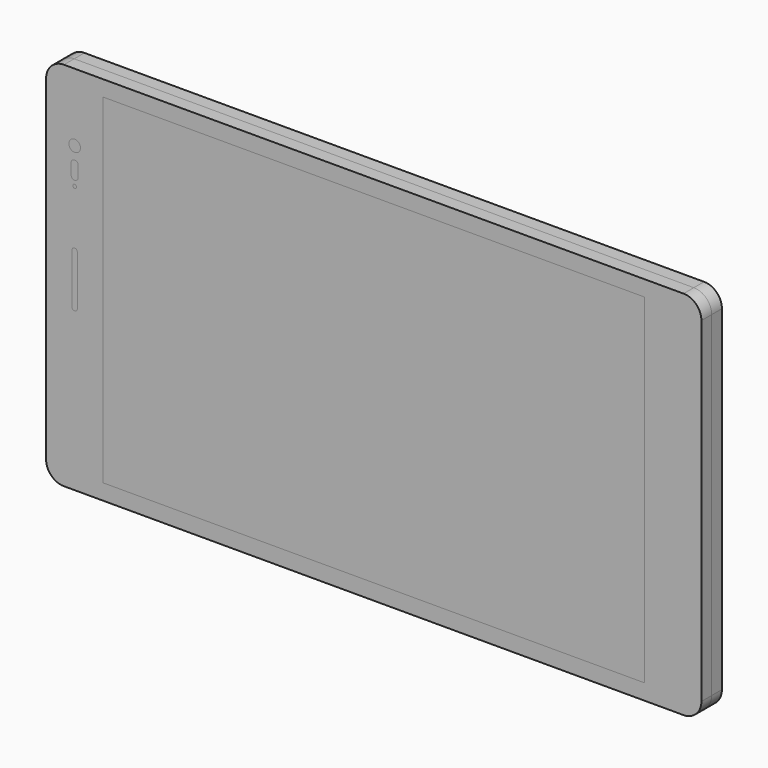
from build123d import *

# Parameters (mm, degrees)
F0_R     = 0.5
F0_R_2   = 2.5
F0_W     = 151.5
F0_H     = 95.1
F1_DEPTH = 3.59
F2_DEPTH = 3.59
F3_DEPTH = 3.59
F4_DEPTH = 3.59


with BuildPart() as f1:
    # F0 (on Front) → F1 (new body)
    with BuildSketch(Plane.XZ):
        with BuildLine():
            Line((42.9996596575, 51.95), (-130.5003403425, 51.95))
            ThreePointArc((-130.5003403425, 51.95), (-134.0358742485, 50.4855339059), (-135.5003403425, 46.95))
            Line((-135.5003403425, 46.95), (-135.5003403425, -46.95))
            ThreePointArc((-135.5003403425, -46.95), (-134.0358742485, -50.4855339059), (-130.5003403425, -51.95))
            Line((-130.5003403425, -51.95), (42.9996596575, -51.95))
            ThreePointArc((42.9996596575, -51.95), (46.5351935634, -50.4855339059), (47.9996596575, -46.95))
            Line((47.9996596575, -46.95), (47.9996596575, 46.95))
            ThreePointArc((47.9996596575, 46.95), (46.5351935634, 50.4855339059), (42.9996596575, 51.95))
        make_face()
        with BuildLine():
            Line((-126.7503403425, 7), (-126.7503403425, -7))
            ThreePointArc((-126.7503403425, -7), (-126.9700102566, -7.5303300859), (-127.5003403425, -7.75))
            ThreePointArc((-127.5003403425, -7.75), (-128.0306704284, -7.5303300859), (-128.2503403425, -7))
            Line((-128.2503403425, -7), (-128.2503403425, 7))
            ThreePointArc((-128.2503403425, 7), (-128.0306704284, 7.5303300859), (-127.5003403425, 7.75))
            ThreePointArc((-127.5003403425, 7.75), (-126.9700102566, 7.5303300859), (-126.7503403425, 7))
        make_face(mode=Mode.SUBTRACT)
        with Locations((-127.5003403425, 22.95)):
            Circle(F0_R, mode=Mode.SUBTRACT)
        with BuildLine():
            Line((-126.5003403425, 28.45), (-126.5003403425, 25.45))
            ThreePointArc((-126.5003403425, 25.45), (-126.7932335613, 24.7428932188), (-127.5003403425, 24.45))
            ThreePointArc((-127.5003403425, 24.45), (-128.2074471237, 24.7428932188), (-128.5003403425, 25.45))
            Line((-128.5003403425, 25.45), (-128.5003403425, 28.45))
            ThreePointArc((-128.5003403425, 28.45), (-128.2074471237, 29.1571067812), (-127.5003403425, 29.45))
            ThreePointArc((-127.5003403425, 29.45), (-126.7932335613, 29.1571067812), (-126.5003403425, 28.45))
        make_face(mode=Mode.SUBTRACT)
        with BuildLine():
            ThreePointArc((-129.1153751416, 33.1296875), (-127.5003403425, 34.575), (-125.8853055434, 33.1296875))
            ThreePointArc((-125.8853055434, 33.1296875), (-125.599015857, 32.5704556397), (-125.5003403425, 31.95))
            ThreePointArc((-125.5003403425, 31.95), (-128.1207959823, 30.0486755145), (-129.1153751416, 33.1296875))
        make_face(mode=Mode.SUBTRACT)
        with Locations((-127.5003403425, 41.45)):
            Circle(F0_R_2, mode=Mode.SUBTRACT)
        with Locations((-43.7503403425, 0)):
            Rectangle(F0_W, F0_H, mode=Mode.SUBTRACT)
        with Locations((-127.5003403425, 41.45)):
            Circle(F0_R_2)
        with BuildLine():
            ThreePointArc((-125.8853055434, 33.1296875), (-125.8778335554, 33.0399818077), (-125.8753403425, 32.95))
            ThreePointArc((-125.8753403425, 32.95), (-127.5903221502, 31.3274932129), (-129.1153751416, 33.1296875))
            ThreePointArc((-129.1153751416, 33.1296875), (-128.1207959823, 30.0486755145), (-125.5003403425, 31.95))
            ThreePointArc((-125.5003403425, 31.95), (-125.599015857, 32.5704556397), (-125.8853055434, 33.1296875))
        make_face()
    extrude(amount=F1_DEPTH)


with BuildPart() as f2:
    # F0 (on Front) → F2 (new body, through all)
    with BuildSketch(Plane.XZ):
        with BuildLine():
            ThreePointArc((-129.1153751416, 33.1296875), (-127.5003403425, 33.95), (-125.8853055434, 33.1296875))
            ThreePointArc((-125.8853055434, 33.1296875), (-127.5003403425, 34.575), (-129.1153751416, 33.1296875))
        make_face()
        with BuildLine():
            ThreePointArc((-129.1153751416, 33.1296875), (-127.5903221502, 31.3274932129), (-125.8753403425, 32.95))
            ThreePointArc((-125.8753403425, 32.95), (-125.8778335554, 33.0399818077), (-125.8853055434, 33.1296875))
            ThreePointArc((-125.8853055434, 33.1296875), (-127.5003403425, 33.95), (-129.1153751416, 33.1296875))
        make_face()
    extrude(amount=F2_DEPTH)


with BuildPart() as f2b:
    # F0 (on Front) → F2, piece 2 (new body, through all)
    with BuildSketch(Plane.XZ):
        with BuildLine():
            ThreePointArc((-127.5003403425, 24.45), (-126.7932335613, 24.7428932188), (-126.5003403425, 25.45))
            Line((-126.5003403425, 25.45), (-126.5003403425, 28.45))
            ThreePointArc((-126.5003403425, 28.45), (-126.7932335613, 29.1571067812), (-127.5003403425, 29.45))
            ThreePointArc((-127.5003403425, 29.45), (-128.2074471237, 29.1571067812), (-128.5003403425, 28.45))
            Line((-128.5003403425, 28.45), (-128.5003403425, 25.45))
            ThreePointArc((-128.5003403425, 25.45), (-128.2074471237, 24.7428932188), (-127.5003403425, 24.45))
        make_face()
    extrude(amount=F2_DEPTH)


with BuildPart() as f2c:
    # F0 (on Front) → F2, piece 3 (new body, through all)
    with BuildSketch(Plane.XZ):
        with Locations((-43.7503403425, 0)):
            Rectangle(F0_W, F0_H)
    extrude(amount=F2_DEPTH)


with BuildPart() as f2d:
    # F0 (on Front) → F2, piece 4 (new body, through all)
    with BuildSketch(Plane.XZ):
        with BuildLine():
            ThreePointArc((-127.5003403425, -7.75), (-126.9700102566, -7.5303300859), (-126.7503403425, -7))
            Line((-126.7503403425, -7), (-126.7503403425, 7))
            ThreePointArc((-126.7503403425, 7), (-126.9700102566, 7.5303300859), (-127.5003403425, 7.75))
            ThreePointArc((-127.5003403425, 7.75), (-128.0306704284, 7.5303300859), (-128.2503403425, 7))
            Line((-128.2503403425, 7), (-128.2503403425, -7))
            ThreePointArc((-128.2503403425, -7), (-128.0306704284, -7.5303300859), (-127.5003403425, -7.75))
        make_face()
    extrude(amount=F2_DEPTH)


with BuildPart() as f2e:
    # F0 (on Front) → F2, piece 5 (new body, through all)
    with BuildSketch(Plane.XZ):
        with Locations((-127.5003403425, 22.95)):
            Circle(F0_R)
    extrude(amount=F2_DEPTH)


with BuildPart() as f3:
    # F0 (on Front) → F3 (new body)
    with BuildSketch(Plane.XZ):
        with BuildLine():
            Line((42.9996596575, 51.95), (-130.5003403425, 51.95))
            ThreePointArc((-130.5003403425, 51.95), (-134.0358742485, 50.4855339059), (-135.5003403425, 46.95))
            Line((-135.5003403425, 46.95), (-135.5003403425, -46.95))
            ThreePointArc((-135.5003403425, -46.95), (-134.0358742485, -50.4855339059), (-130.5003403425, -51.95))
            Line((-130.5003403425, -51.95), (42.9996596575, -51.95))
            ThreePointArc((42.9996596575, -51.95), (46.5351935634, -50.4855339059), (47.9996596575, -46.95))
            Line((47.9996596575, -46.95), (47.9996596575, 46.95))
            ThreePointArc((47.9996596575, 46.95), (46.5351935634, 50.4855339059), (42.9996596575, 51.95))
        make_face()
        with BuildLine():
            Line((-126.7503403425, 7), (-126.7503403425, -7))
            ThreePointArc((-126.7503403425, -7), (-126.9700102566, -7.5303300859), (-127.5003403425, -7.75))
            ThreePointArc((-127.5003403425, -7.75), (-128.0306704284, -7.5303300859), (-128.2503403425, -7))
            Line((-128.2503403425, -7), (-128.2503403425, 7))
            ThreePointArc((-128.2503403425, 7), (-128.0306704284, 7.5303300859), (-127.5003403425, 7.75))
            ThreePointArc((-127.5003403425, 7.75), (-126.9700102566, 7.5303300859), (-126.7503403425, 7))
        make_face(mode=Mode.SUBTRACT)
        with Locations((-127.5003403425, 22.95)):
            Circle(F0_R, mode=Mode.SUBTRACT)
        with BuildLine():
            Line((-126.5003403425, 28.45), (-126.5003403425, 25.45))
            ThreePointArc((-126.5003403425, 25.45), (-126.7932335613, 24.7428932188), (-127.5003403425, 24.45))
            ThreePointArc((-127.5003403425, 24.45), (-128.2074471237, 24.7428932188), (-128.5003403425, 25.45))
            Line((-128.5003403425, 25.45), (-128.5003403425, 28.45))
            ThreePointArc((-128.5003403425, 28.45), (-128.2074471237, 29.1571067812), (-127.5003403425, 29.45))
            ThreePointArc((-127.5003403425, 29.45), (-126.7932335613, 29.1571067812), (-126.5003403425, 28.45))
        make_face(mode=Mode.SUBTRACT)
        with BuildLine():
            ThreePointArc((-129.1153751416, 33.1296875), (-127.5003403425, 34.575), (-125.8853055434, 33.1296875))
            ThreePointArc((-125.8853055434, 33.1296875), (-125.599015857, 32.5704556397), (-125.5003403425, 31.95))
            ThreePointArc((-125.5003403425, 31.95), (-128.1207959823, 30.0486755145), (-129.1153751416, 33.1296875))
        make_face(mode=Mode.SUBTRACT)
        with Locations((-127.5003403425, 41.45)):
            Circle(F0_R_2, mode=Mode.SUBTRACT)
        with Locations((-43.7503403425, 0)):
            Rectangle(F0_W, F0_H, mode=Mode.SUBTRACT)
        with Locations((-43.7503403425, 0)):
            Rectangle(F0_W, F0_H)
        with BuildLine():
            ThreePointArc((-127.5003403425, -7.75), (-126.9700102566, -7.5303300859), (-126.7503403425, -7))
            Line((-126.7503403425, -7), (-126.7503403425, 7))
            ThreePointArc((-126.7503403425, 7), (-126.9700102566, 7.5303300859), (-127.5003403425, 7.75))
            ThreePointArc((-127.5003403425, 7.75), (-128.0306704284, 7.5303300859), (-128.2503403425, 7))
            Line((-128.2503403425, 7), (-128.2503403425, -7))
            ThreePointArc((-128.2503403425, -7), (-128.0306704284, -7.5303300859), (-127.5003403425, -7.75))
        make_face()
        with BuildLine():
            ThreePointArc((-127.5003403425, 24.45), (-126.7932335613, 24.7428932188), (-126.5003403425, 25.45))
            Line((-126.5003403425, 25.45), (-126.5003403425, 28.45))
            ThreePointArc((-126.5003403425, 28.45), (-126.7932335613, 29.1571067812), (-127.5003403425, 29.45))
            ThreePointArc((-127.5003403425, 29.45), (-128.2074471237, 29.1571067812), (-128.5003403425, 28.45))
            Line((-128.5003403425, 28.45), (-128.5003403425, 25.45))
            ThreePointArc((-128.5003403425, 25.45), (-128.2074471237, 24.7428932188), (-127.5003403425, 24.45))
        make_face()
        with BuildLine():
            ThreePointArc((-129.1153751416, 33.1296875), (-127.5003403425, 33.95), (-125.8853055434, 33.1296875))
            ThreePointArc((-125.8853055434, 33.1296875), (-127.5003403425, 34.575), (-129.1153751416, 33.1296875))
        make_face()
    extrude(amount=-F3_DEPTH)


with BuildPart() as f4:
    # F0 (on Front) → F4 (new body, through all)
    with BuildSketch(Plane.XZ):
        with Locations((-127.5003403425, 41.45)):
            Circle(F0_R_2)
    extrude(amount=-F4_DEPTH)


with BuildPart() as f4b:
    # F0 (on Front) → F4, piece 2 (new body, through all)
    with BuildSketch(Plane.XZ):
        with BuildLine():
            ThreePointArc((-125.8853055434, 33.1296875), (-125.8778335554, 33.0399818077), (-125.8753403425, 32.95))
            ThreePointArc((-125.8753403425, 32.95), (-127.5903221502, 31.3274932129), (-129.1153751416, 33.1296875))
            ThreePointArc((-129.1153751416, 33.1296875), (-128.1207959823, 30.0486755145), (-125.5003403425, 31.95))
            ThreePointArc((-125.5003403425, 31.95), (-125.599015857, 32.5704556397), (-125.8853055434, 33.1296875))
        make_face()
        with BuildLine():
            ThreePointArc((-129.1153751416, 33.1296875), (-127.5903221502, 31.3274932129), (-125.8753403425, 32.95))
            ThreePointArc((-125.8753403425, 32.95), (-125.8778335554, 33.0399818077), (-125.8853055434, 33.1296875))
            ThreePointArc((-125.8853055434, 33.1296875), (-127.5003403425, 33.95), (-129.1153751416, 33.1296875))
        make_face()
    extrude(amount=-F4_DEPTH)


solid = Compound([f1.part, f2.part, f2b.part, f2c.part, f2d.part, f2e.part, f3.part, f4.part, f4b.part])
